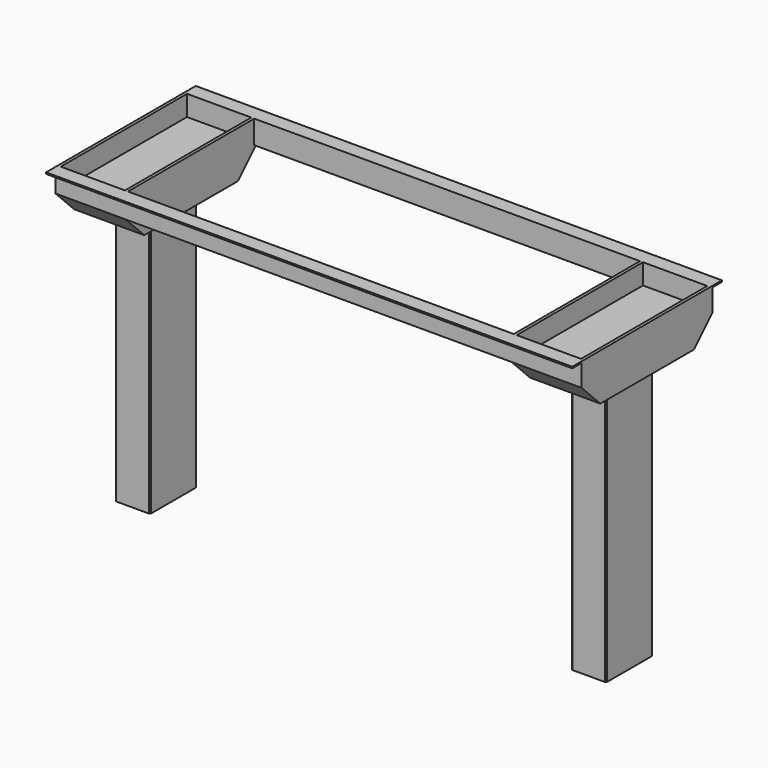
from build123d import *

# Parameters (mm, degrees)
F0_W      = 1143
F0_H      = 355.6
F0_W_2    = 838.2
F0_H_2    = 342.9
F1_DEPTH  = 50.8
F2_W      = 139.7
F2_H      = 342.9
F3_DEPTH  = 44.45
F4_W      = 1143
F4_H      = 3.175
F5_DEPTH  = 25.4
F6_W      = 1143
F6_H      = 3.175
F7_DEPTH  = 25.4
F9_DEPTH  = 50.8
F10_SIZE  = 50.8
F13_DEPTH = 571.5
F14_SIZE  = 2.54


with BuildPart() as f1:
    # F0 (on Top) → F1 (new body)
    with BuildSketch(Plane.XY):
        Rectangle(F0_W, F0_H)
        Rectangle(F0_W_2, F0_H_2, mode=Mode.SUBTRACT)
    extrude(amount=F1_DEPTH)

    # F2 (on face) → F3 (cut)
    with BuildSketch(Plane.XY.offset(50.8)):
        with Locations((-495.3, 0)):
            Rectangle(F2_W, F2_H)
        with Locations((495.3, 0)):
            Rectangle(F2_W, F2_H)
    extrude(amount=-F3_DEPTH, mode=Mode.SUBTRACT)

    # F4 (on face) → F5 (join)
    with BuildSketch(Plane(origin=(0, 177.8, 0), x_dir=(-1, 0, 0), z_dir=(0, 1, 0))):
        with Locations((0, 49.2125)):
            Rectangle(F4_W, F4_H)
    extrude(amount=F5_DEPTH)

    # F6 (on face) → F7 (join)
    with BuildSketch(Plane.XZ.offset(177.8)):
        with Locations((0, 49.2125)):
            Rectangle(F6_W, F6_H)
    extrude(amount=F7_DEPTH)

    # F8 (on face) → F9 (join)
    with BuildSketch(Plane(origin=(0, 0, 0), x_dir=(1, 0, 0), z_dir=(0, 0, -1))):
        Polygon((-419.1, 177.8), (-571.5, 177.8), (-571.5, -177.8), (-419.1, -177.8), (-419.1, -171.45), (-419.1, 171.45), align=None)
        Polygon((571.5, 177.8), (419.1, 177.8), (419.1, 171.45), (419.1, -171.45), (419.1, -177.8), (571.5, -177.8), align=None)
    extrude(amount=F9_DEPTH)

    # F10
    f10_edges = [f1.edges().sort_by_distance(p)[0] for p in [
        (-495.3, 177.8, -50.8),
        (-495.3, -177.8, -50.8),
        (495.3, -177.8, -50.8),
        (495.3, 177.8, -50.8),
    ]]
    chamfer(f10_edges, length=F10_SIZE)

    # F11 (on face) + F12 (on face) → F13 (join)
    with BuildSketch(Plane(origin=(0, 0, -50.8), x_dir=(1, 0, 0), z_dir=(0, 0, -1))):
        Polygon((457.2, -63.5), (495.3, -63.5), (533.4, -63.5), (533.4, 63.5), (457.2, 63.5), align=None)
        Polygon((527.05, -57.15), (495.3, -57.15), (463.55, -57.15), (463.55, 57.15), (527.05, 57.15), align=None, mode=Mode.SUBTRACT)
    with BuildSketch(Plane(origin=(0, 0, -50.8), x_dir=(1, 0, 0), z_dir=(0, 0, -1))):
        Polygon((-533.4, -63.5), (-495.3, -63.5), (-457.2, -63.5), (-457.2, 63.5), (-533.4, 63.5), align=None)
        Polygon((-463.55, -57.15), (-495.3, -57.15), (-527.05, -57.15), (-527.05, 57.15), (-463.55, 57.15), align=None, mode=Mode.SUBTRACT)
    extrude(amount=F13_DEPTH)

    # F14
    f14_edges = [f1.edges().sort_by_distance(p)[0] for p in [
        (-457.2, -63.5, -336.55),
        (-533.4, -63.5, -336.55),
        (-457.2, 63.5, -336.55),
        (533.4, -63.5, -336.55),
        (457.2, -63.5, -336.55),
        (533.4, 63.5, -336.55),
        (457.2, 63.5, -336.55),
        (-533.4, 63.5, -336.55),
    ]]
    chamfer(f14_edges, length=F14_SIZE)


solid = f1.part
